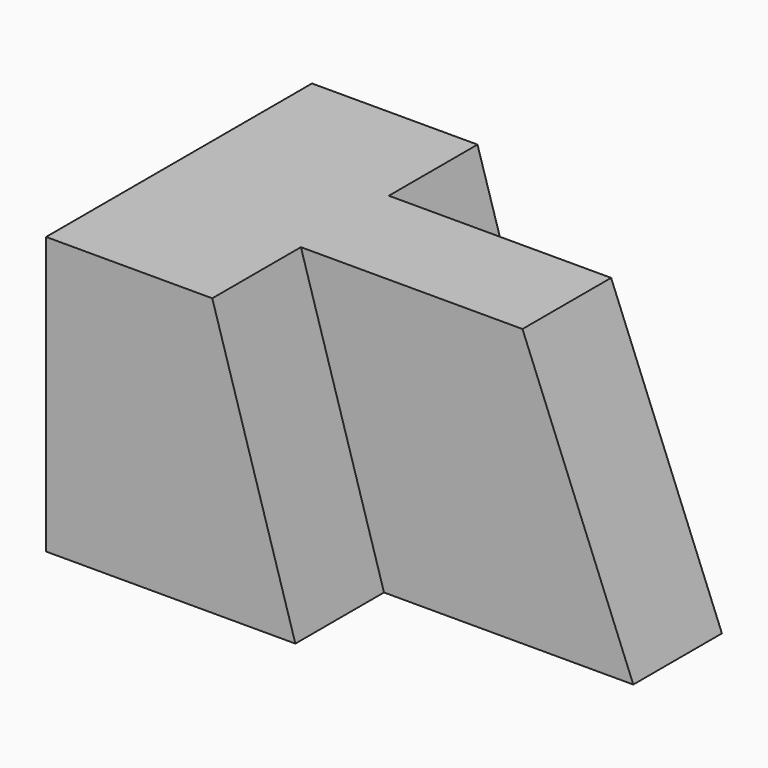
from build123d import *

# Parameters (mm, degrees)
F0_W     = 57.15
F0_H     = 31.75
F1_DEPTH = 38.1
F3_DEPTH = 12.7
F5_DEPTH = 12.7
F7_DEPTH = 25.401


with BuildPart() as f1:
    # F0 (on Front) → F1 (new body)
    with BuildSketch(Plane.XZ):
        with Locations((28.575, 15.875)):
            Rectangle(F0_W, F0_H)
    extrude(amount=F1_DEPTH)

    # F2 (on face) → F3 (cut)
    with BuildSketch(Plane.XZ.offset(38.1)):
        Polygon((57.15, 31.75), (19.05, 31.75), (28.575, 0), (57.15, 0), align=None)
    extrude(amount=-F3_DEPTH, mode=Mode.SUBTRACT)

    # F4 (on face) → F5 (cut)
    with BuildSketch(Plane(origin=(0, 0, 0), x_dir=(-1, 0, 0), z_dir=(0, 1, 0))):
        Polygon((-28.575, 0), (-18.9710725099, 31.75), (-57.15, 31.75), (-57.15, 0), align=None)
    extrude(amount=-F5_DEPTH, mode=Mode.SUBTRACT)

    # F6 (on face) → F7 (cut, through all)
    with BuildSketch(Plane.XZ.offset(25.4)):
        Polygon((44.45, 31.75), (57.15, 0), (57.15, 31.75), align=None)
    extrude(amount=-F7_DEPTH, mode=Mode.SUBTRACT)


solid = f1.part
